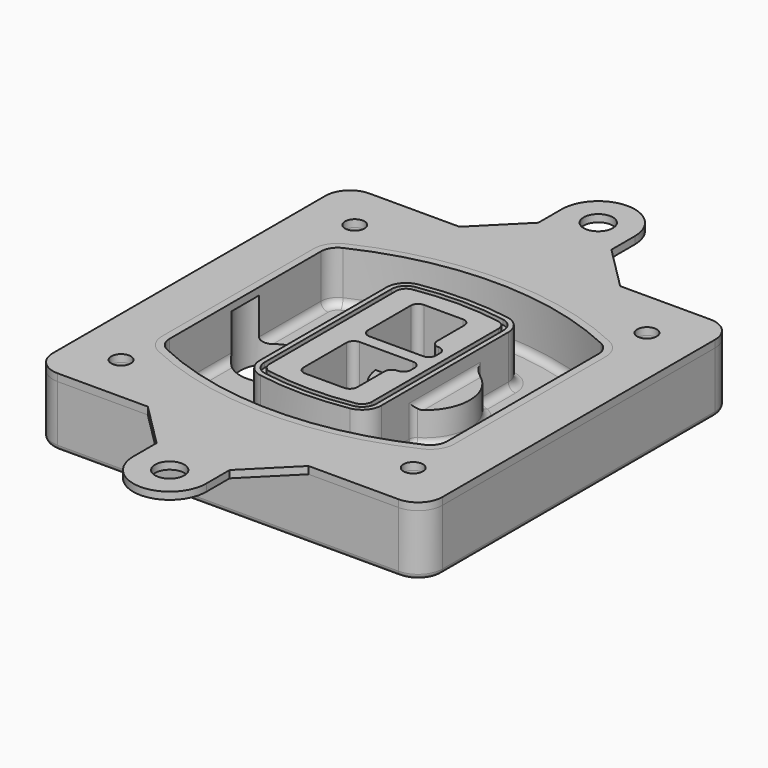
from build123d import *

# Parameters (mm, degrees)
F0_R      = 4
F1_DEPTH  = 25
F2_DEPTH  = 3
F3_DEPTH  = 18
F5_DEPTH  = 21
F6_DEPTH  = 2
F8_DEPTH  = 20
F9_DEPTH  = 16
F10_DEPTH = 25
F7_R      = 6
F7_R_2    = 4
F11_DEPTH = 6
F13_DEPTH = 9
F14_R     = 3
F15_R     = 2
F16_R     = 6
F16_R_2   = 4
F17_DEPTH = 3


with BuildPart() as f1:
    # F0 (on Top) → F1 (new body)
    with BuildSketch(Plane.XY):
        with BuildLine():
            ThreePointArc((-80, -70), (-77.0710678119, -77.0710678119), (-70, -80))
            Line((-70, -80), (70, -80))
            ThreePointArc((70, -80), (77.0710678119, -77.0710678119), (80, -70))
            Line((80, -70), (80, 70))
            ThreePointArc((80, 70), (77.0710678119, 77.0710678119), (70, 80))
            Line((70, 80), (-70, 80))
            ThreePointArc((-70, 80), (-77.0710678119, 77.0710678119), (-80, 70))
            Line((-80, 70), (-80, -70))
        make_face()
        with Locations((-60, -60)):
            Circle(F0_R, mode=Mode.SUBTRACT)
        with Locations((60, -60)):
            Circle(F0_R, mode=Mode.SUBTRACT)
        with Locations((-60, 60)):
            Circle(F0_R, mode=Mode.SUBTRACT)
        with BuildLine():
            ThreePointArc((-64, 38.8308515907), (-61.8195654598, 46.3340424013), (-55.9574468085, 51.5000594398))
            ThreePointArc((-55.9574468085, 51.5000594398), (0, 64), (55.9574468085, 51.5000594398))
            ThreePointArc((55.9574468085, 51.5000594398), (61.8195654598, 46.3340424013), (64, 38.8308515907))
            Line((64, 38.8308515907), (64, -38.8308515907))
            ThreePointArc((64, -38.8308515907), (61.8195654598, -46.3340424013), (55.9574468085, -51.5000594398))
            ThreePointArc((55.9574468085, -51.5000594398), (0, -64), (-55.9574468085, -51.5000594398))
            ThreePointArc((-55.9574468085, -51.5000594398), (-61.8195654598, -46.3340424013), (-64, -38.8308515907))
            Line((-64, -38.8308515907), (-64, 38.8308515907))
        make_face(mode=Mode.SUBTRACT)
        with Locations((60, 60)):
            Circle(F0_R, mode=Mode.SUBTRACT)
        with BuildLine():
            ThreePointArc((55.9574468085, 51.5000594398), (0, 64), (-55.9574468085, 51.5000594398))
            ThreePointArc((-55.9574468085, 51.5000594398), (-61.8195654598, 46.3340424013), (-64, 38.8308515907))
            Line((-64, 38.8308515907), (-64, -38.8308515907))
            ThreePointArc((-64, -38.8308515907), (-61.8195654598, -46.3340424013), (-55.9574468085, -51.5000594398))
            ThreePointArc((-55.9574468085, -51.5000594398), (0, -64), (55.9574468085, -51.5000594398))
            ThreePointArc((55.9574468085, -51.5000594398), (61.8195654598, -46.3340424013), (64, -38.8308515907))
            Line((64, -38.8308515907), (64, 38.8308515907))
            ThreePointArc((64, 38.8308515907), (61.8195654598, 46.3340424013), (55.9574468085, 51.5000594398))
        make_face()
        with BuildLine():
            Line((-60, -38.8308515907), (-60, 38.8308515907))
            ThreePointArc((-60, 38.8308515907), (-58.442546757, 44.1902735983), (-54.2553191489, 47.8802857686))
            ThreePointArc((-54.2553191489, 47.8802857686), (0, 60), (54.2553191489, 47.8802857686))
            ThreePointArc((54.2553191489, 47.8802857686), (58.442546757, 44.1902735983), (60, 38.8308515907))
            Line((60, 38.8308515907), (60, -38.8308515907))
            ThreePointArc((60, -38.8308515907), (58.442546757, -44.1902735983), (54.2553191489, -47.8802857686))
            ThreePointArc((54.2553191489, -47.8802857686), (0, -60), (-54.2553191489, -47.8802857686))
            ThreePointArc((-54.2553191489, -47.8802857686), (-58.442546757, -44.1902735983), (-60, -38.8308515907))
        make_face(mode=Mode.SUBTRACT)
        with BuildLine():
            ThreePointArc((-54.2553191489, 47.8802857686), (-58.442546757, 44.1902735983), (-60, 38.8308515907))
            Line((-60, 38.8308515907), (-60, -38.8308515907))
            ThreePointArc((-60, -38.8308515907), (-58.442546757, -44.1902735983), (-54.2553191489, -47.8802857686))
            ThreePointArc((-54.2553191489, -47.8802857686), (0, -60), (54.2553191489, -47.8802857686))
            ThreePointArc((54.2553191489, -47.8802857686), (58.442546757, -44.1902735983), (60, -38.8308515907))
            Line((60, -38.8308515907), (60, 38.8308515907))
            ThreePointArc((60, 38.8308515907), (58.442546757, 44.1902735983), (54.2553191489, 47.8802857686))
            ThreePointArc((54.2553191489, 47.8802857686), (0, 60), (-54.2553191489, 47.8802857686))
        make_face()
        with BuildLine():
            ThreePointArc((52.9787234043, 45.1654555152), (55.9097827299, 42.582446996), (57, 38.8308515907))
            Line((57, 38.8308515907), (57, -38.8308515907))
            ThreePointArc((57, -38.8308515907), (55.9097827299, -42.582446996), (52.9787234043, -45.1654555152))
            ThreePointArc((52.9787234043, -45.1654555152), (0, -57), (-52.9787234043, -45.1654555152))
            ThreePointArc((-52.9787234043, -45.1654555152), (-55.9097827299, -42.582446996), (-57, -38.8308515907))
            Line((-57, -38.8308515907), (-57, 38.8308515907))
            ThreePointArc((-57, 38.8308515907), (-55.9097827299, 42.582446996), (-52.9787234043, 45.1654555152))
            ThreePointArc((-52.9787234043, 45.1654555152), (0, 57), (52.9787234043, 45.1654555152))
        make_face(mode=Mode.SUBTRACT)
        with BuildLine():
            Line((57, -38.8308515907), (57, 38.8308515907))
            ThreePointArc((57, 38.8308515907), (55.9097827299, 42.582446996), (52.9787234043, 45.1654555152))
            ThreePointArc((52.9787234043, 45.1654555152), (0, 57), (-52.9787234043, 45.1654555152))
            ThreePointArc((-52.9787234043, 45.1654555152), (-55.9097827299, 42.582446996), (-57, 38.8308515907))
            Line((-57, 38.8308515907), (-57, -38.8308515907))
            ThreePointArc((-57, -38.8308515907), (-55.9097827299, -42.582446996), (-52.9787234043, -45.1654555152))
            ThreePointArc((-52.9787234043, -45.1654555152), (0, -57), (52.9787234043, -45.1654555152))
            ThreePointArc((52.9787234043, -45.1654555152), (55.9097827299, -42.582446996), (57, -38.8308515907))
        make_face()
    extrude(amount=-F1_DEPTH)

    # F0 (on Top) → F2 (join)
    with BuildSketch(Plane.XY):
        with BuildLine():
            ThreePointArc((-54.2553191489, 47.8802857686), (-58.442546757, 44.1902735983), (-60, 38.8308515907))
            Line((-60, 38.8308515907), (-60, -38.8308515907))
            ThreePointArc((-60, -38.8308515907), (-58.442546757, -44.1902735983), (-54.2553191489, -47.8802857686))
            ThreePointArc((-54.2553191489, -47.8802857686), (0, -60), (54.2553191489, -47.8802857686))
            ThreePointArc((54.2553191489, -47.8802857686), (58.442546757, -44.1902735983), (60, -38.8308515907))
            Line((60, -38.8308515907), (60, 38.8308515907))
            ThreePointArc((60, 38.8308515907), (58.442546757, 44.1902735983), (54.2553191489, 47.8802857686))
            ThreePointArc((54.2553191489, 47.8802857686), (0, 60), (-54.2553191489, 47.8802857686))
        make_face()
        with BuildLine():
            ThreePointArc((52.9787234043, 45.1654555152), (55.9097827299, 42.582446996), (57, 38.8308515907))
            Line((57, 38.8308515907), (57, -38.8308515907))
            ThreePointArc((57, -38.8308515907), (55.9097827299, -42.582446996), (52.9787234043, -45.1654555152))
            ThreePointArc((52.9787234043, -45.1654555152), (0, -57), (-52.9787234043, -45.1654555152))
            ThreePointArc((-52.9787234043, -45.1654555152), (-55.9097827299, -42.582446996), (-57, -38.8308515907))
            Line((-57, -38.8308515907), (-57, 38.8308515907))
            ThreePointArc((-57, 38.8308515907), (-55.9097827299, 42.582446996), (-52.9787234043, 45.1654555152))
            ThreePointArc((-52.9787234043, 45.1654555152), (0, 57), (52.9787234043, 45.1654555152))
        make_face(mode=Mode.SUBTRACT)
    extrude(amount=F2_DEPTH)

    # F0 (on Top) → F3 (cut)
    with BuildSketch(Plane.XY):
        with BuildLine():
            Line((57, -38.8308515907), (57, 38.8308515907))
            ThreePointArc((57, 38.8308515907), (55.9097827299, 42.582446996), (52.9787234043, 45.1654555152))
            ThreePointArc((52.9787234043, 45.1654555152), (0, 57), (-52.9787234043, 45.1654555152))
            ThreePointArc((-52.9787234043, 45.1654555152), (-55.9097827299, 42.582446996), (-57, 38.8308515907))
            Line((-57, 38.8308515907), (-57, -38.8308515907))
            ThreePointArc((-57, -38.8308515907), (-55.9097827299, -42.582446996), (-52.9787234043, -45.1654555152))
            ThreePointArc((-52.9787234043, -45.1654555152), (0, -57), (52.9787234043, -45.1654555152))
            ThreePointArc((52.9787234043, -45.1654555152), (55.9097827299, -42.582446996), (57, -38.8308515907))
        make_face()
    extrude(amount=-F3_DEPTH, mode=Mode.SUBTRACT)

    # F4 (on face) → F5 (join, through all)
    with BuildSketch(Plane.XY.offset(3)):
        with BuildLine():
            ThreePointArc((-25, -32.5662280692), (-23.1122504785, -37.7276614059), (-18.3399014778, -40.4532214146))
            ThreePointArc((-18.3399014778, -40.4532214146), (0, -42), (18.3399014778, -40.4532214146))
            ThreePointArc((18.3399014778, -40.4532214146), (23.1122504785, -37.7276614059), (25, -32.5662280692))
            Line((25, -32.5662280692), (25, 32.5662280692))
            ThreePointArc((25, 32.5662280692), (23.1122504785, 37.7276614059), (18.3399014778, 40.4532214146))
            ThreePointArc((18.3399014778, 40.4532214146), (0, 42), (-18.3399014778, 40.4532214146))
            ThreePointArc((-18.3399014778, 40.4532214146), (-23.1122504785, 37.7276614059), (-25, 32.5662280692))
            Line((-25, 32.5662280692), (-25, -32.5662280692))
        make_face()
        with BuildLine():
            ThreePointArc((18.0049261084, 38.4814730782), (21.5841878588, 36.4373030717), (23, 32.5662280692))
            Line((23, 32.5662280692), (23, -32.5662280692))
            ThreePointArc((23, -32.5662280692), (21.5841878588, -36.4373030717), (18.0049261084, -38.4814730782))
            ThreePointArc((18.0049261084, -38.4814730782), (0, -40), (-18.0049261084, -38.4814730782))
            ThreePointArc((-18.0049261084, -38.4814730782), (-21.5841878588, -36.4373030717), (-23, -32.5662280692))
            Line((-23, -32.5662280692), (-23, 32.5662280692))
            ThreePointArc((-23, 32.5662280692), (-21.5841878588, 36.4373030717), (-18.0049261084, 38.4814730782))
            ThreePointArc((-18.0049261084, 38.4814730782), (0, 40), (18.0049261084, 38.4814730782))
        make_face(mode=Mode.SUBTRACT)
        with BuildLine():
            Line((23, -32.5662280692), (23, 32.5662280692))
            ThreePointArc((23, 32.5662280692), (21.5841878588, 36.4373030717), (18.0049261084, 38.4814730782))
            ThreePointArc((18.0049261084, 38.4814730782), (0, 40), (-18.0049261084, 38.4814730782))
            ThreePointArc((-18.0049261084, 38.4814730782), (-21.5841878588, 36.4373030717), (-23, 32.5662280692))
            Line((-23, 32.5662280692), (-23, -32.5662280692))
            ThreePointArc((-23, -32.5662280692), (-21.5841878588, -36.4373030717), (-18.0049261084, -38.4814730782))
            ThreePointArc((-18.0049261084, -38.4814730782), (0, -40), (18.0049261084, -38.4814730782))
            ThreePointArc((18.0049261084, -38.4814730782), (21.5841878588, -36.4373030717), (23, -32.5662280692))
        make_face()
        with BuildLine():
            ThreePointArc((17.6699507389, 36.5097247419), (20.0561252392, 35.1469447375), (21, 32.5662280692))
            Line((21, 32.5662280692), (21, -32.5662280692))
            ThreePointArc((21, -32.5662280692), (20.0561252392, -35.1469447375), (17.6699507389, -36.5097247419))
            ThreePointArc((17.6699507389, -36.5097247419), (0, -38), (-17.6699507389, -36.5097247419))
            ThreePointArc((-17.6699507389, -36.5097247419), (-20.0561252392, -35.1469447375), (-21, -32.5662280692))
            Line((-21, -32.5662280692), (-21, 32.5662280692))
            ThreePointArc((-21, 32.5662280692), (-20.0561252392, 35.1469447375), (-17.6699507389, 36.5097247419))
            ThreePointArc((-17.6699507389, 36.5097247419), (0, 38), (17.6699507389, 36.5097247419))
        make_face(mode=Mode.SUBTRACT)
        with BuildLine():
            Line((21, -32.5662280692), (21, 32.5662280692))
            ThreePointArc((21, 32.5662280692), (20.0561252392, 35.1469447375), (17.6699507389, 36.5097247419))
            ThreePointArc((17.6699507389, 36.5097247419), (0, 38), (-17.6699507389, 36.5097247419))
            ThreePointArc((-17.6699507389, 36.5097247419), (-20.0561252392, 35.1469447375), (-21, 32.5662280692))
            Line((-21, 32.5662280692), (-21, -32.5662280692))
            ThreePointArc((-21, -32.5662280692), (-20.0561252392, -35.1469447375), (-17.6699507389, -36.5097247419))
            ThreePointArc((-17.6699507389, -36.5097247419), (0, -38), (17.6699507389, -36.5097247419))
            ThreePointArc((17.6699507389, -36.5097247419), (20.0561252392, -35.1469447375), (21, -32.5662280692))
        make_face()
        with BuildLine():
            Line((-8, -2.5), (14, -2.5))
            ThreePointArc((14, -2.5), (16.1213203436, -3.3786796564), (17, -5.5))
            Line((17, -5.5), (17, -7.5))
            ThreePointArc((17, -7.5), (16.1213203436, -9.6213203436), (14, -10.5))
            ThreePointArc((14, -10.5), (11.8786796564, -11.3786796564), (11, -13.5))
            Line((11, -13.5), (11, -27.5))
            ThreePointArc((11, -27.5), (10.1213203436, -29.6213203436), (8, -30.5))
            Line((8, -30.5), (-8, -30.5))
            ThreePointArc((-8, -30.5), (-10.1213203436, -29.6213203436), (-11, -27.5))
            Line((-11, -27.5), (-11, -5.5))
            ThreePointArc((-11, -5.5), (-10.1213203436, -3.3786796564), (-8, -2.5))
        make_face(mode=Mode.SUBTRACT)
        with BuildLine():
            ThreePointArc((-8, 2.5), (-10.1213203436, 3.3786796564), (-11, 5.5))
            Line((-11, 5.5), (-11, 27.5))
            ThreePointArc((-11, 27.5), (-10.1213203436, 29.6213203436), (-8, 30.5))
            Line((-8, 30.5), (8, 30.5))
            ThreePointArc((8, 30.5), (10.1213203436, 29.6213203436), (11, 27.5))
            Line((11, 27.5), (11, 13.5))
            ThreePointArc((11, 13.5), (11.8786796564, 11.3786796564), (14, 10.5))
            ThreePointArc((14, 10.5), (16.1213203436, 9.6213203436), (17, 7.5))
            Line((17, 7.5), (17, 5.5))
            ThreePointArc((17, 5.5), (16.1213203436, 3.3786796564), (14, 2.5))
            Line((14, 2.5), (-8, 2.5))
        make_face(mode=Mode.SUBTRACT)
    extrude(amount=-F5_DEPTH)

    # F4 (on face) → F6 (cut)
    with BuildSketch(Plane.XY.offset(3)):
        with BuildLine():
            Line((23, -32.5662280692), (23, 32.5662280692))
            ThreePointArc((23, 32.5662280692), (21.5841878588, 36.4373030717), (18.0049261084, 38.4814730782))
            ThreePointArc((18.0049261084, 38.4814730782), (0, 40), (-18.0049261084, 38.4814730782))
            ThreePointArc((-18.0049261084, 38.4814730782), (-21.5841878588, 36.4373030717), (-23, 32.5662280692))
            Line((-23, 32.5662280692), (-23, -32.5662280692))
            ThreePointArc((-23, -32.5662280692), (-21.5841878588, -36.4373030717), (-18.0049261084, -38.4814730782))
            ThreePointArc((-18.0049261084, -38.4814730782), (0, -40), (18.0049261084, -38.4814730782))
            ThreePointArc((18.0049261084, -38.4814730782), (21.5841878588, -36.4373030717), (23, -32.5662280692))
        make_face()
        with BuildLine():
            ThreePointArc((17.6699507389, 36.5097247419), (20.0561252392, 35.1469447375), (21, 32.5662280692))
            Line((21, 32.5662280692), (21, -32.5662280692))
            ThreePointArc((21, -32.5662280692), (20.0561252392, -35.1469447375), (17.6699507389, -36.5097247419))
            ThreePointArc((17.6699507389, -36.5097247419), (0, -38), (-17.6699507389, -36.5097247419))
            ThreePointArc((-17.6699507389, -36.5097247419), (-20.0561252392, -35.1469447375), (-21, -32.5662280692))
            Line((-21, -32.5662280692), (-21, 32.5662280692))
            ThreePointArc((-21, 32.5662280692), (-20.0561252392, 35.1469447375), (-17.6699507389, 36.5097247419))
            ThreePointArc((-17.6699507389, 36.5097247419), (0, 38), (17.6699507389, 36.5097247419))
        make_face(mode=Mode.SUBTRACT)
    extrude(amount=-F6_DEPTH, mode=Mode.SUBTRACT)

    # F7 (on face) → F8 (join)
    with BuildSketch(Plane(origin=(0, 0, -25), x_dir=(1, 0, 0), z_dir=(0, 0, -1))):
        with BuildLine():
            ThreePointArc((3.28842436, 0), (16.7567035675, 13.4682792075), (30.224982775, 0))
            Line((30.224982775, 0), (35.224982775, 0))
            ThreePointArc((35.224982775, 0), (16.7567035675, 18.4682792075), (-1.71157564, 0))
            Line((-1.71157564, 0), (3.28842436, 0))
        make_face()
        with BuildLine():
            Line((3.28842436, 0), (30.224982775, 0))
            ThreePointArc((30.224982775, 0), (16.7567035675, 13.4682792075), (3.28842436, 0))
        make_face()
        with BuildLine():
            ThreePointArc((3.28842436, 0), (16.7567035675, -13.4682792075), (30.224982775, 0))
            Line((30.224982775, 0), (3.28842436, 0))
        make_face()
        with BuildLine():
            Line((35.224982775, 0), (30.224982775, 0))
            ThreePointArc((30.224982775, 0), (16.7567035675, -13.4682792075), (3.28842436, 0))
            Line((3.28842436, 0), (-1.71157564, 0))
            ThreePointArc((-1.71157564, 0), (16.7567035675, -18.4682792075), (35.224982775, 0))
        make_face()
    extrude(amount=-F8_DEPTH)

    # F7 (on face) → F9 (cut)
    with BuildSketch(Plane(origin=(0, 0, -25), x_dir=(1, 0, 0), z_dir=(0, 0, -1))):
        with BuildLine():
            Line((3.28842436, 0), (30.224982775, 0))
            ThreePointArc((30.224982775, 0), (16.7567035675, 13.4682792075), (3.28842436, 0))
        make_face()
        with BuildLine():
            ThreePointArc((3.28842436, 0), (16.7567035675, -13.4682792075), (30.224982775, 0))
            Line((30.224982775, 0), (3.28842436, 0))
        make_face()
    extrude(amount=-F9_DEPTH, mode=Mode.SUBTRACT)

    # F7 (on face) → F10 (cut)
    with BuildSketch(Plane(origin=(0, 0, -25), x_dir=(1, 0, 0), z_dir=(0, 0, -1))):
        with BuildLine():
            Line((-59.0318229325, 0), (-32.0952645175, 0))
            ThreePointArc((-32.0952645175, 0), (-45.563543725, 13.4682792075), (-59.0318229325, 0))
        make_face()
        with BuildLine():
            ThreePointArc((-59.0318229325, 0), (-45.563543725, -13.4682792075), (-32.0952645175, 0))
            Line((-32.0952645175, 0), (-59.0318229325, 0))
        make_face()
    extrude(amount=-F10_DEPTH, mode=Mode.SUBTRACT)

    # F7 (on face) → F11 (cut)
    with BuildSketch(Plane(origin=(0, 0, -25), x_dir=(1, 0, 0), z_dir=(0, 0, -1))):
        with Locations((60, -60)):
            Circle(F7_R)
        with Locations((60, -60)):
            Circle(F7_R_2, mode=Mode.SUBTRACT)
        with Locations((60, -60)):
            Circle(F7_R)
        with Locations((60, -60)):
            Circle(F7_R_2, mode=Mode.SUBTRACT)
        with Locations((-60, -60)):
            Circle(F7_R)
        with Locations((-60, -60)):
            Circle(F7_R_2, mode=Mode.SUBTRACT)
        with Locations((-60, -60)):
            Circle(F7_R)
        with Locations((-60, -60)):
            Circle(F7_R_2, mode=Mode.SUBTRACT)
        with Locations((-60, 60)):
            Circle(F7_R)
        with Locations((-60, 60)):
            Circle(F7_R_2, mode=Mode.SUBTRACT)
        with Locations((-60, 60)):
            Circle(F7_R)
        with Locations((-60, 60)):
            Circle(F7_R_2, mode=Mode.SUBTRACT)
        with Locations((60, 60)):
            Circle(F7_R)
        with Locations((60, 60)):
            Circle(F7_R_2, mode=Mode.SUBTRACT)
        with Locations((60, 60)):
            Circle(F7_R)
        with Locations((60, 60)):
            Circle(F7_R_2, mode=Mode.SUBTRACT)
    extrude(amount=-F11_DEPTH, mode=Mode.SUBTRACT)

    # F12 (on face) → F13 (cut, through all)
    with BuildSketch(Plane(origin=(0, 0, -9), x_dir=(1, 0, 0), z_dir=(0, 0, -1))):
        with BuildLine():
            Line((11, 13.5), (11, 17.5481537753))
            ThreePointArc((11, 17.5481537753), (2.5696536419, 11.8239143813), (-1.5415842455, 2.5))
            Line((-1.5415842455, 2.5), (3.5224848595, 2.5))
            ThreePointArc((3.5224848595, 2.5), (6.1857188154, 8.3455872281), (11.2536447004, 12.2927168648))
            ThreePointArc((11.2536447004, 12.2927168648), (11.0640958889, 12.8831798879), (11, 13.5))
        make_face()
        with BuildLine():
            ThreePointArc((11.2536447004, -12.2927168648), (6.1857188154, -8.3455872281), (3.5224848595, -2.5))
            Line((3.5224848595, -2.5), (-1.5415842455, -2.5))
            ThreePointArc((-1.5415842455, -2.5), (2.5696536419, -11.8239143813), (11, -17.5481537753))
            Line((11, -17.5481537753), (11, -13.5))
            ThreePointArc((11, -13.5), (11.0640958889, -12.8831798879), (11.2536447004, -12.2927168648))
        make_face()
        with BuildLine():
            ThreePointArc((11.2536447004, 12.2927168648), (6.1857188154, 8.3455872281), (3.5224848595, 2.5))
            Line((3.5224848595, 2.5), (14, 2.5))
            ThreePointArc((14, 2.5), (16.1213203436, 3.3786796564), (17, 5.5))
            Line((17, 5.5), (17, 7.5))
            ThreePointArc((17, 7.5), (16.1213203436, 9.6213203436), (14, 10.5))
            ThreePointArc((14, 10.5), (12.3601599782, 10.9878446101), (11.2536447004, 12.2927168648))
        make_face()
        with BuildLine():
            Line((14, -2.5), (3.5224848595, -2.5))
            ThreePointArc((3.5224848595, -2.5), (6.1857188154, -8.3455872281), (11.2536447004, -12.2927168648))
            ThreePointArc((11.2536447004, -12.2927168648), (12.3601599782, -10.9878446101), (14, -10.5))
            ThreePointArc((14, -10.5), (16.1213203436, -9.6213203436), (17, -7.5))
            Line((17, -7.5), (17, -5.5))
            ThreePointArc((17, -5.5), (16.1213203436, -3.3786796564), (14, -2.5))
        make_face()
    extrude(amount=F13_DEPTH, mode=Mode.SUBTRACT)

    # F14
    f14_edges = [f1.edges().sort_by_distance(p)[0] for p in [
        (-57, -22.97218, -18),
        (-57, 22.97218, -18),
        (25, 0, -5),
        (25, 16.526506, -11.5),
        (25, -16.526506, -11.5),
        (25, -24.546367, -18),
        (35.224983, 0, -18),
    ]]
    fillet(f14_edges, radius=F14_R)

    # F15
    f15_edges = [f1.edges().sort_by_distance(p)[0] for p in [
        (0, -80, -25),
    ]]
    fillet(f15_edges, radius=F15_R)


with BuildPart() as f17:
    # F16 (on face) → F17 (new body, through all)
    with BuildSketch(Plane.XY):
        with BuildLine():
            Line((-15, 98), (-33, 80))
            Line((-33, 80), (33, 80))
            Line((33, 80), (15, 98))
            Line((15, 98), (15, 110))
            ThreePointArc((15, 110), (0, 125), (-15, 110))
            Line((-15, 110), (-15, 98))
        make_face()
        with Locations((0, 110)):
            Circle(F16_R, mode=Mode.SUBTRACT)
        with BuildLine():
            Line((33, -80), (-33, -80))
            Line((-33, -80), (-15, -98))
            Line((-15, -98), (-15, -110))
            ThreePointArc((-15, -110), (0, -125), (15, -110))
            Line((15, -110), (15, -98))
            Line((15, -98), (33, -80))
        make_face()
        with Locations((0, -110)):
            Circle(F16_R, mode=Mode.SUBTRACT)
        with BuildLine():
            Line((33, 80), (-33, 80))
            Line((-33, 80), (-70, 80))
            ThreePointArc((-70, 80), (-77.0710678119, 77.0710678119), (-80, 70))
            Line((-80, 70), (-80, -70))
            ThreePointArc((-80, -70), (-77.0710678119, -77.0710678119), (-70, -80))
            Line((-70, -80), (-33, -80))
            Line((-33, -80), (33, -80))
            Line((33, -80), (70, -80))
            ThreePointArc((70, -80), (77.0710678119, -77.0710678119), (80, -70))
            Line((80, -70), (80, 70))
            ThreePointArc((80, 70), (77.0710678119, 77.0710678119), (70, 80))
            Line((70, 80), (44.3909979156, 80))
            Line((44.3909979156, 80), (33, 80))
        make_face()
        with Locations((-60, -60)):
            Circle(F16_R_2, mode=Mode.SUBTRACT)
        with Locations((60, -60)):
            Circle(F16_R_2, mode=Mode.SUBTRACT)
        with Locations((-60, 60)):
            Circle(F16_R_2, mode=Mode.SUBTRACT)
        with BuildLine():
            ThreePointArc((-60, 38.8308515907), (-58.442546757, 44.1902735983), (-54.2553191489, 47.8802857686))
            ThreePointArc((-54.2553191489, 47.8802857686), (0, 60), (54.2553191489, 47.8802857686))
            ThreePointArc((54.2553191489, 47.8802857686), (58.442546757, 44.1902735983), (60, 38.8308515907))
            Line((60, 38.8308515907), (60, -38.8308515907))
            ThreePointArc((60, -38.8308515907), (58.442546757, -44.1902735983), (54.2553191489, -47.8802857686))
            ThreePointArc((54.2553191489, -47.8802857686), (0, -60), (-54.2553191489, -47.8802857686))
            ThreePointArc((-54.2553191489, -47.8802857686), (-58.442546757, -44.1902735983), (-60, -38.8308515907))
            Line((-60, -38.8308515907), (-60, 38.8308515907))
        make_face(mode=Mode.SUBTRACT)
        with Locations((60, 60)):
            Circle(F16_R_2, mode=Mode.SUBTRACT)
    extrude(amount=F17_DEPTH)


solid = Compound([f1.part, f17.part])
